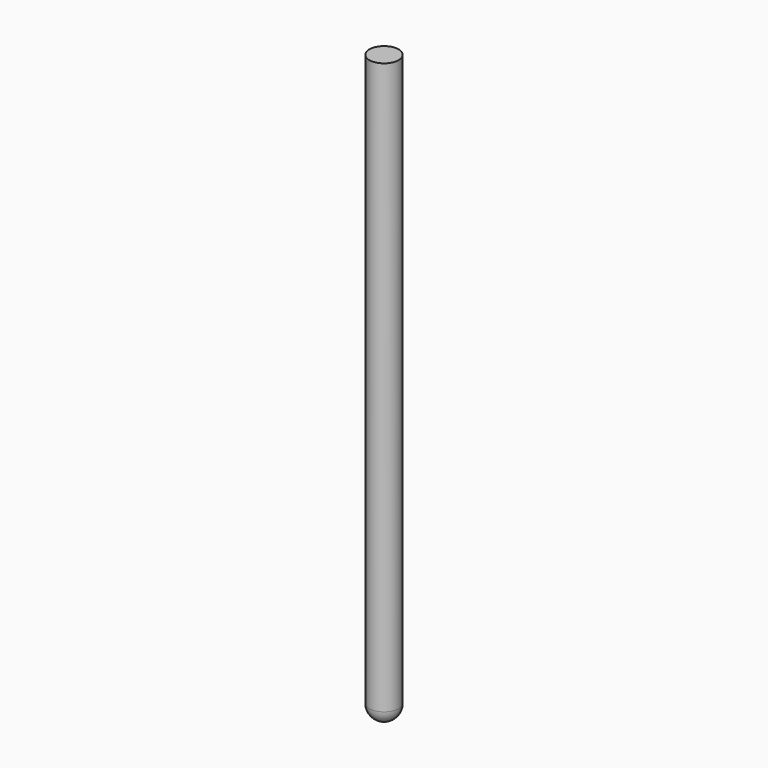
from build123d import *

# Parameters (mm, degrees)
F0_R     = 5
F1_DEPTH = 200
F2_R     = 5


with BuildPart() as f1:
    # F0 (on Top) → F1 (new body)
    with BuildSketch(Plane.XY):
        Circle(F0_R)
    extrude(amount=-F1_DEPTH)

    # F2
    f2_edges = [f1.edges().sort_by_distance(p)[0] for p in [
        (-5, 0, -200),
    ]]
    fillet(f2_edges, radius=F2_R)


solid = f1.part
